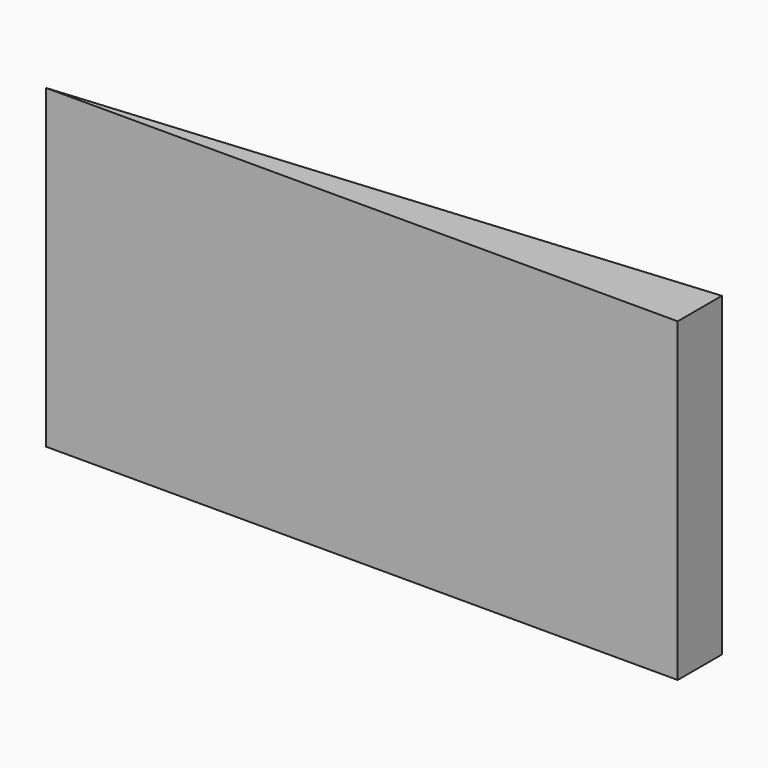
from build123d import *

# Parameters (mm, degrees)
EXTRUDE_DEPTH = 10


with BuildPart() as part:
    # Sketch → Extrude (new body)
    with BuildSketch(Plane.XY):
        Polygon((0, 0), (20, 1.749773), (20, 0), align=None)
    extrude(amount=EXTRUDE_DEPTH)


solid = part.part
